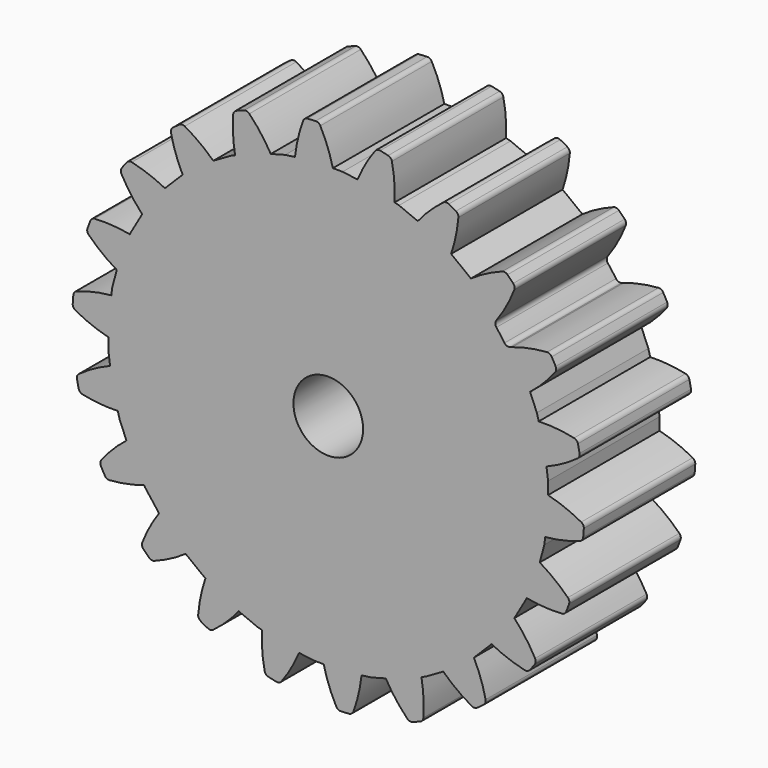
from build123d import *

# Parameters (mm, degrees)
F1_DEPTH = 4
F2_R     = 1
F3_DEPTH = 25


with BuildPart() as f1:
    # F0 (on Front) → F1 (new body)
    with BuildSketch(Plane.XZ):
        with BuildLine():
            Line((-0.9548687594, 6.2389925357), (-0.4135957983, 6.3102524729))
            Line((-0.4135957983, 6.3102524729), (0.1323477858, 6.3102524729))
            ThreePointArc((0.1323477858, 6.3102524729), (-0.0181659911, 6.7989274234), (-0.2290543438, 7.2647425231))
            ThreePointArc((-0.2290543438, 7.2647425231), (-0.2851098243, 7.3224034831), (-0.3633445131, 7.3410136061))
            ThreePointArc((-0.3633445131, 7.3410136061), (-0.4807129998, 7.3342630858), (-0.5979585026, 7.3256361928))
            ThreePointArc((-0.5979585026, 7.3256361928), (-0.6730947743, 7.296973606), (-0.7211444269, 7.232489235))
            ThreePointArc((-0.7211444269, 7.232489235), (-0.8694275292, 6.7431327945), (-0.9548687594, 6.2389925357))
        make_face()
        with BuildLine():
            Line((0.1323477858, 6.3102524729), (-0.4135957983, 6.3102524729))
            Line((-0.4135957983, 6.3102524729), (-0.9548687594, 6.2389925357))
            ThreePointArc((-0.9548687594, 6.2389925357), (-0.9576926172, 6.2112024314), (-0.9603247383, 6.1833935117))
            ThreePointArc((-0.9603247383, 6.1833935117), (-0.9976551374, 6.0990815291), (-1.0784777938, 6.054699468))
            ThreePointArc((-1.0784777938, 6.054699468), (-1.2714974384, 6.017125083), (-1.4632171479, 5.973398997))
            ThreePointArc((-1.4632171479, 5.973398997), (-2.1148816109, 5.7749264733), (-2.7405978274, 5.5055992906))
            ThreePointArc((-2.7405978274, 5.5055992906), (-2.9152128926, 5.4151670141), (-3.0868475448, 5.319198458))
            ThreePointArc((-3.0868475448, 5.319198458), (-3.6561988466, 4.9451703706), (-4.1806909239, 4.5104682017))
            ThreePointArc((-4.1806909239, 4.5104682017), (-4.3227551356, 4.3745043191), (-4.4603999118, 4.2340680943))
            ThreePointArc((-4.4603999118, 4.2340680943), (-4.9013125959, 3.7147859746), (-5.2820893054, 3.1499258039))
            ThreePointArc((-5.2820893054, 3.1499258039), (-5.380093466, 2.9794453002), (-5.4725972049, 2.8059187146))
            ThreePointArc((-5.4725972049, 2.8059187146), (-5.749351148, 2.1834517116), (-5.9555642251, 1.5341951507))
            ThreePointArc((-5.9555642251, 1.5341951507), (-6.0015686204, 1.3430093426), (-6.0414372193, 1.1504504881))
            ThreePointArc((-6.0414372193, 1.1504504881), (-6.1316114628, 0.4752271764), (-6.1465547504, -0.2058268693))
            ThreePointArc((-6.1465547504, -0.2058268693), (-6.1368323779, -0.4022292448), (-6.12083592, -0.598220395))
            ThreePointArc((-6.12083592, -0.598220395), (-6.017125083, -1.2714974384), (-5.8395879648, -1.9291740205))
            ThreePointArc((-5.8395879648, -1.9291740205), (-5.7749264733, -2.1148816109), (-5.7043608964, -2.2984270194))
            ThreePointArc((-5.7043608964, -2.2984270194), (-5.4151670141, -2.9152128926), (-5.0595324917, -3.4962309657))
            ThreePointArc((-5.0595324917, -3.4962309657), (-4.9451703706, -3.6561988466), (-4.8257524782, -3.812428756))
            ThreePointArc((-4.8257524782, -3.812428756), (-4.3745043191, -4.3227551356), (-3.8695837862, -4.7800440711))
            ThreePointArc((-3.8695837862, -4.7800440711), (-3.7147859746, -4.9013125959), (-3.556190294, -5.0175701881))
            ThreePointArc((-3.556190294, -5.0175701881), (-2.9794453002, -5.380093466), (-2.3661444158, -5.6766064338))
            ThreePointArc((-2.3661444158, -5.6766064338), (-2.1834517116, -5.749351148), (-1.9985267217, -5.8162179243))
            ThreePointArc((-1.9985267217, -5.8162179243), (-1.3430093426, -6.0015686204), (-0.6710140967, -6.1132839033))
            ThreePointArc((-0.6710140967, -6.1132839033), (-0.4752271764, -6.1316114628), (-0.2789544001, -6.1436702746))
            ThreePointArc((-0.2789544001, -6.1436702746), (0.4022292448, -6.1368323779), (1.0784777938, -6.054699468))
            ThreePointArc((1.0784777938, -6.054699468), (1.2714974384, -6.017125083), (1.4632171479, -5.973398997))
            ThreePointArc((1.4632171479, -5.973398997), (2.1148816109, -5.7749264733), (2.7405978274, -5.5055992906))
            ThreePointArc((2.7405978274, -5.5055992906), (2.9152128926, -5.4151670141), (3.0868475448, -5.319198458))
            ThreePointArc((3.0868475448, -5.319198458), (3.6561988466, -4.9451703706), (4.1806909239, -4.5104682017))
            ThreePointArc((4.1806909239, -4.5104682017), (4.3227551356, -4.3745043191), (4.4603999118, -4.2340680943))
            ThreePointArc((4.4603999118, -4.2340680943), (4.9013125959, -3.7147859746), (5.2820893054, -3.1499258039))
            ThreePointArc((5.2820893054, -3.1499258039), (5.380093466, -2.9794453002), (5.4725972049, -2.8059187146))
            ThreePointArc((5.4725972049, -2.8059187146), (5.749351148, -2.1834517116), (5.9555642251, -1.5341951507))
            ThreePointArc((5.9555642251, -1.5341951507), (6.0015686204, -1.3430093426), (6.0414372193, -1.1504504881))
            ThreePointArc((6.0414372193, -1.1504504881), (6.1316114628, -0.4752271764), (6.1465547504, 0.2058268693))
            ThreePointArc((6.1465547504, 0.2058268693), (6.1368323779, 0.4022292448), (6.12083592, 0.598220395))
            ThreePointArc((6.12083592, 0.598220395), (6.017125083, 1.2714974384), (5.8395879648, 1.9291740205))
            ThreePointArc((5.8395879648, 1.9291740205), (5.7749264733, 2.1148816109), (5.7043608964, 2.2984270194))
            ThreePointArc((5.7043608964, 2.2984270194), (5.4151670141, 2.9152128926), (5.0595324917, 3.4962309657))
            ThreePointArc((5.0595324917, 3.4962309657), (4.9451703706, 3.6561988466), (4.8257524782, 3.812428756))
            ThreePointArc((4.8257524782, 3.812428756), (4.3745043191, 4.3227551356), (3.8695837862, 4.7800440711))
            ThreePointArc((3.8695837862, 4.7800440711), (3.7147859746, 4.9013125959), (3.556190294, 5.0175701881))
            ThreePointArc((3.556190294, 5.0175701881), (2.9794453002, 5.380093466), (2.3661444158, 5.6766064338))
            ThreePointArc((2.3661444158, 5.6766064338), (2.1834517116, 5.749351148), (1.9985267217, 5.8162179243))
            ThreePointArc((1.9985267217, 5.8162179243), (1.3430093426, 6.0015686204), (0.6710140967, 6.1132839033))
            ThreePointArc((0.6710140967, 6.1132839033), (0.4752271764, 6.1316114628), (0.2789544001, 6.1436702746))
            ThreePointArc((0.2789544001, 6.1436702746), (0.1930301714, 6.1771231673), (0.1450142169, 6.2558412545))
            ThreePointArc((0.1450142169, 6.2558412545), (0.1387748217, 6.2830687042), (0.1323477858, 6.3102524729))
        make_face()
        with BuildLine():
            Line((0.4135957983, 6.3102524729), (0.1323477858, 6.3102524729))
            ThreePointArc((0.1323477858, 6.3102524729), (0.1387748217, 6.2830687042), (0.1450142169, 6.2558412545))
            ThreePointArc((0.1450142169, 6.2558412545), (0.1930301714, 6.1771231673), (0.2789544001, 6.1436702746))
            ThreePointArc((0.2789544001, 6.1436702746), (0.4752271764, 6.1316114628), (0.6710140967, 6.1132839033))
            ThreePointArc((0.6710140967, 6.1132839033), (0.7610667391, 6.1330978053), (0.8206384253, 6.2034773715))
            ThreePointArc((0.8206384253, 6.2034773715), (0.8307350065, 6.2287646425), (0.8410013665, 6.2539834623))
            Line((0.8410013665, 6.2539834623), (0.4135957983, 6.3102524729))
        make_face()
        with BuildLine():
            ThreePointArc((-0.9603247383, 6.1833935117), (-0.9576926172, 6.2112024314), (-0.9548687594, 6.2389925357))
            Line((-0.9548687594, 6.2389925357), (-1.2337106561, 6.2022823035))
            Line((-1.2337106561, 6.2022823035), (-1.6501151308, 6.0907070608))
            ThreePointArc((-1.6501151308, 6.0907070608), (-1.6366448843, 6.0670440204), (-1.6233340296, 6.0432909538))
            ThreePointArc((-1.6233340296, 6.0432909538), (-1.5550856107, 5.9812891599), (-1.4632171479, 5.973398997))
            ThreePointArc((-1.4632171479, 5.973398997), (-1.2714974384, 6.017125083), (-1.0784777938, 6.054699468))
            ThreePointArc((-1.0784777938, 6.054699468), (-0.9976551374, 6.0990815291), (-0.9603247383, 6.1833935117))
        make_face()
        with BuildLine():
            ThreePointArc((1.345694674, 7.142692466), (1.0652023455, 6.7143217492), (0.8410013665, 6.2539834623))
            Line((0.8410013665, 6.2539834623), (1.2337106561, 6.2022823035))
            Line((1.2337106561, 6.2022823035), (1.9050395177, 6.0224002772))
            ThreePointArc((1.9050395177, 6.0224002772), (1.8978556687, 6.5311587247), (1.8269384524, 7.0350014719))
            ThreePointArc((1.8269384524, 7.0350014719), (1.7893985824, 7.1061194118), (1.7195760257, 7.1460169529))
            ThreePointArc((1.7195760257, 7.1460169529), (1.605059946, 7.1726064), (1.4901332333, 7.1973608321))
            ThreePointArc((1.4901332333, 7.1973608321), (1.4099653247, 7.1910276153), (1.345694674, 7.142692466))
        make_face()
        with BuildLine():
            Line((1.2337106561, 6.2022823035), (0.8410013665, 6.2539834623))
            ThreePointArc((0.8410013665, 6.2539834623), (0.8307350065, 6.2287646425), (0.8206384253, 6.2034773715))
            ThreePointArc((0.8206384253, 6.2034773715), (0.7610667391, 6.1330978053), (0.6710140967, 6.1132839033))
            ThreePointArc((0.6710140967, 6.1132839033), (1.3430093426, 6.0015686204), (1.9985267217, 5.8162179243))
            ThreePointArc((1.9985267217, 5.8162179243), (1.925507797, 5.8725233925), (1.901614274, 5.9615805016))
            ThreePointArc((1.901614274, 5.9615805016), (1.9034412464, 5.9919839494), (1.9050395177, 6.0224002772))
            Line((1.9050395177, 6.0224002772), (1.2337106561, 6.2022823035))
        make_face()
        with BuildLine():
            ThreePointArc((-1.6233340296, 6.0432909538), (-1.6366448843, 6.0670440204), (-1.6501151308, 6.0907070608))
            Line((-1.6501151308, 6.0907070608), (-2.0327163826, 5.9881893644))
            Line((-2.0327163826, 5.9881893644), (-2.6748226167, 5.7222202537))
            ThreePointArc((-2.6748226167, 5.7222202537), (-2.6692678915, 5.6922727581), (-2.6634881028, 5.6623678837))
            ThreePointArc((-2.6634881028, 5.6623678837), (-2.675552928, 5.5709539399), (-2.7405978274, 5.5055992906))
            ThreePointArc((-2.7405978274, 5.5055992906), (-2.1148816109, 5.7749264733), (-1.4632171479, 5.973398997))
            ThreePointArc((-1.4632171479, 5.973398997), (-1.5550856107, 5.9812891599), (-1.6233340296, 6.0432909538))
        make_face()
        with BuildLine():
            Line((-2.0327163826, 5.9881893644), (-1.6501151308, 6.0907070608))
            ThreePointArc((-1.6501151308, 6.0907070608), (-1.9324842431, 6.5178429897), (-2.2664905193, 6.9059373401))
            ThreePointArc((-2.2664905193, 6.9059373401), (-2.3365203287, 6.9454699722), (-2.4168290404, 6.9412849956))
            ThreePointArc((-2.4168290404, 6.9412849956), (-2.5275414374, 6.9017413949), (-2.6376071968, 6.8604320764))
            ThreePointArc((-2.6376071968, 6.8604320764), (-2.7016247377, 6.8117621918), (-2.729560695, 6.7363527395))
            ThreePointArc((-2.729560695, 6.7363527395), (-2.7341065295, 6.2275638826), (-2.6748226167, 5.7222202537))
            Line((-2.6748226167, 5.7222202537), (-2.0327163826, 5.9881893644))
        make_face()
        with BuildLine():
            Line((2.0327163826, 5.9881893644), (1.9050395177, 6.0224002772))
            ThreePointArc((1.9050395177, 6.0224002772), (1.9034412464, 5.9919839494), (1.901614274, 5.9615805016))
            ThreePointArc((1.901614274, 5.9615805016), (1.925507797, 5.8725233925), (1.9985267217, 5.8162179243))
            ThreePointArc((1.9985267217, 5.8162179243), (2.1834517116, 5.749351148), (2.3661444158, 5.6766064338))
            ThreePointArc((2.3661444158, 5.6766064338), (2.4581315147, 5.6702469724), (2.5351183441, 5.7209923882))
            ThreePointArc((2.5351183441, 5.7209923882), (2.5526418225, 5.7433109259), (2.570321242, 5.7655061404))
            Line((2.570321242, 5.7655061404), (2.0327163826, 5.9881893644))
        make_face()
        with BuildLine():
            ThreePointArc((-2.6634881028, 5.6623678837), (-2.6692678915, 5.6922727581), (-2.6748226167, 5.7222202537))
            Line((-2.6748226167, 5.7222202537), (-2.7969417682, 5.6716368449))
            Line((-2.7969417682, 5.6716368449), (-3.3008813502, 5.3806871916))
            ThreePointArc((-3.3008813502, 5.3806871916), (-3.2804561237, 5.3609894876), (-3.2601694074, 5.3411491609))
            ThreePointArc((-3.2601694074, 5.3411491609), (-3.1772176051, 5.3008866769), (-3.0868475448, 5.319198458))
            ThreePointArc((-3.0868475448, 5.319198458), (-2.9152128926, 5.4151670141), (-2.7405978274, 5.5055992906))
            ThreePointArc((-2.7405978274, 5.5055992906), (-2.675552928, 5.5709539399), (-2.6634881028, 5.6623678837))
        make_face()
        with BuildLine():
            ThreePointArc((2.5351183441, 5.7209923882), (2.4581315147, 5.6702469724), (2.3661444158, 5.6766064338))
            ThreePointArc((2.3661444158, 5.6766064338), (2.9794453002, 5.380093466), (3.556190294, 5.0175701881))
            ThreePointArc((3.556190294, 5.0175701881), (3.5019922323, 5.0921666976), (3.504156852, 5.1843479514))
            ThreePointArc((3.504156852, 5.1843479514), (3.5155471657, 5.2160207593), (3.5266738625, 5.247787135))
            Line((3.5266738625, 5.247787135), (3.5133107047, 5.2580410466))
            Line((3.5133107047, 5.2580410466), (2.7969417682, 5.6716368449))
            Line((2.7969417682, 5.6716368449), (2.570321242, 5.7655061404))
            ThreePointArc((2.570321242, 5.7655061404), (2.5526418225, 5.7433109259), (2.5351183441, 5.7209923882))
        make_face()
        with BuildLine():
            ThreePointArc((-4.1806909239, 4.5104682017), (-3.6561988466, 4.9451703706), (-3.0868475448, 5.319198458))
            ThreePointArc((-3.0868475448, 5.319198458), (-3.1772176051, 5.3008866769), (-3.2601694074, 5.3411491609))
            ThreePointArc((-3.2601694074, 5.3411491609), (-3.2804561237, 5.3609894876), (-3.3008813502, 5.3806871916))
            Line((-3.3008813502, 5.3806871916), (-3.5133107047, 5.2580410466))
            Line((-3.5133107047, 5.2580410466), (-4.1695659209, 4.7544787082))
            Line((-4.1695659209, 4.7544787082), (-4.181476351, 4.7425682781))
            ThreePointArc((-4.181476351, 4.7425682781), (-4.1662985006, 4.7125259935), (-4.1508715016, 4.6826108851))
            ThreePointArc((-4.1508715016, 4.6826108851), (-4.1366933325, 4.5915007943), (-4.1806909239, 4.5104682017))
        make_face()
        with BuildLine():
            ThreePointArc((3.3035135955, 6.4742372325), (2.9145220975, 6.1430399635), (2.570321242, 5.7655061404))
            Line((2.570321242, 5.7655061404), (2.7969417682, 5.6716368449))
            Line((2.7969417682, 5.6716368449), (3.5133107047, 5.2580410466))
            Line((3.5133107047, 5.2580410466), (3.5266738625, 5.247787135))
            ThreePointArc((3.5266738625, 5.247787135), (3.6616808323, 5.735044447), (3.7349235603, 6.2353264403))
            ThreePointArc((3.7349235603, 6.2353264403), (3.7189405579, 6.3141398075), (3.6631867416, 6.3720925053))
            ThreePointArc((3.6631867416, 6.3720925053), (3.5608004807, 6.4298678008), (3.4575032369, 6.4859981011))
            ThreePointArc((3.4575032369, 6.4859981011), (3.3787984185, 6.502507334), (3.3035135955, 6.4742372325))
        make_face()
        with BuildLine():
            ThreePointArc((3.504156852, 5.1843479514), (3.5019922323, 5.0921666976), (3.556190294, 5.0175701881))
            ThreePointArc((3.556190294, 5.0175701881), (3.7147859746, 4.9013125959), (3.8695837862, 4.7800440711))
            ThreePointArc((3.8695837862, 4.7800440711), (3.956053094, 4.748026452), (4.0442180516, 4.7750266256))
            ThreePointArc((4.0442180516, 4.7750266256), (4.0698006561, 4.7932593736), (4.0955239175, 4.8112931357))
            Line((4.0955239175, 4.8112931357), (3.5266738625, 5.247787135))
            ThreePointArc((3.5266738625, 5.247787135), (3.5155471657, 5.2160207593), (3.504156852, 5.1843479514))
        make_face()
        with BuildLine():
            Line((-3.5133107047, 5.2580410466), (-3.3008813502, 5.3806871916))
            ThreePointArc((-3.3008813502, 5.3806871916), (-3.691415572, 5.7100639335), (-4.1203091122, 5.987654185))
            ThreePointArc((-4.1203091122, 5.987654185), (-4.1986398518, 6.0058557905), (-4.2745164523, 5.9792147561))
            ThreePointArc((-4.2745164523, 5.9792147561), (-4.3696034995, 5.9100816624), (-4.4635726424, 5.8394365538))
            ThreePointArc((-4.4635726424, 5.8394365538), (-4.5112851321, 5.774702316), (-4.516844189, 5.6944770077))
            ThreePointArc((-4.516844189, 5.6944770077), (-4.378928159, 5.2080350906), (-4.181476351, 4.7425682781))
            Line((-4.181476351, 4.7425682781), (-4.1695659209, 4.7544787082))
            Line((-4.1695659209, 4.7544787082), (-3.5133107047, 5.2580410466))
        make_face()
        with BuildLine():
            ThreePointArc((-4.4603999118, 4.2340680943), (-4.3227551356, 4.3745043191), (-4.1806909239, 4.5104682017))
            ThreePointArc((-4.1806909239, 4.5104682017), (-4.1366933325, 4.5915007943), (-4.1508715016, 4.6826108851))
            ThreePointArc((-4.1508715016, 4.6826108851), (-4.1662985006, 4.7125259935), (-4.181476351, 4.7425682781))
            Line((-4.181476351, 4.7425682781), (-4.6884859153, 4.2355587138))
            ThreePointArc((-4.6884859153, 4.2355587138), (-4.6606288417, 4.2210367925), (-4.6328852488, 4.2062992281))
            ThreePointArc((-4.6328852488, 4.2062992281), (-4.5419503247, 4.1910378809), (-4.4603999118, 4.2340680943))
        make_face()
        with BuildLine():
            ThreePointArc((4.0442180516, 4.7750266256), (3.956053094, 4.748026452), (3.8695837862, 4.7800440711))
            ThreePointArc((3.8695837862, 4.7800440711), (4.3745043191, 4.3227551356), (4.8257524782, 3.812428756))
            ThreePointArc((4.8257524782, 3.812428756), (4.7947660841, 3.8992729412), (4.8228134818, 3.9871103626))
            ThreePointArc((4.8228134818, 3.9871103626), (5.1130402601, 4.4415430354), (5.3403273739, 4.9305023434))
            ThreePointArc((5.3403273739, 4.9305023434), (5.3471960868, 5.0106261476), (5.3100278536, 5.0819390191))
            ThreePointArc((5.3100278536, 5.0819390191), (5.2280661374, 5.1662195523), (5.1447668907, 5.2491783776))
            ThreePointArc((5.1447668907, 5.2491783776), (5.0739013589, 5.2871925803), (4.9937014922, 5.2812778023))
            ThreePointArc((4.9937014922, 5.2812778023), (4.5298500955, 5.0744979739), (4.0955239175, 4.8112931357))
            ThreePointArc((4.0955239175, 4.8112931357), (4.0698006561, 4.7932593736), (4.0442180516, 4.7750266256))
        make_face()
        with BuildLine():
            ThreePointArc((-5.2820893054, 3.1499258039), (-4.9013125959, 3.7147859746), (-4.4603999118, 4.2340680943))
            ThreePointArc((-4.4603999118, 4.2340680943), (-4.5419503247, 4.1910378809), (-4.6328852488, 4.2062992281))
            ThreePointArc((-4.6328852488, 4.2062992281), (-4.6606288417, 4.2210367925), (-4.6884859153, 4.2355587138))
            Line((-4.6884859153, 4.2355587138), (-4.7544787082, 4.1695659209))
            Line((-4.7544787082, 4.1695659209), (-5.2580410466, 3.5133107047))
            Line((-5.2580410466, 3.5133107047), (-5.3427750854, 3.3665470445))
            ThreePointArc((-5.3427750854, 3.3665470445), (-5.3224543413, 3.3449471343), (-5.3019759775, 3.3234966012))
            ThreePointArc((-5.3019759775, 3.3234966012), (-5.262703445, 3.2400715611), (-5.2820893054, 3.1499258039))
        make_face()
        with BuildLine():
            ThreePointArc((-5.4725972049, 2.8059187146), (-5.380093466, 2.9794453002), (-5.2820893054, 3.1499258039))
            ThreePointArc((-5.2820893054, 3.1499258039), (-5.262703445, 3.2400715611), (-5.3019759775, 3.3234966012))
            ThreePointArc((-5.3019759775, 3.3234966012), (-5.3224543413, 3.3449471343), (-5.3427750854, 3.3665470445))
            Line((-5.3427750854, 3.3665470445), (-5.6716368449, 2.7969417682))
            Line((-5.6716368449, 2.7969417682), (-5.6937890731, 2.7434615585))
            ThreePointArc((-5.6937890731, 2.7434615585), (-5.6620051169, 2.7371977692), (-5.6302722801, 2.7306799476))
            ThreePointArc((-5.6302722801, 2.7306799476), (-5.5387212411, 2.7416561208), (-5.4725972049, 2.8059187146))
        make_face()
        with BuildLine():
            ThreePointArc((5.2256792645, 3.4422166039), (5.1334787792, 3.441149066), (5.0595324917, 3.4962309657))
            ThreePointArc((5.0595324917, 3.4962309657), (5.4151670141, 2.9152128926), (5.7043608964, 2.2984270194))
            ThreePointArc((5.7043608964, 2.2984270194), (5.6990965034, 2.3904832809), (5.7507544457, 2.4668608046))
            ThreePointArc((5.7507544457, 2.4668608046), (5.7726405654, 2.4836241845), (5.7944120704, 2.5005361539))
            Line((5.7944120704, 2.5005361539), (5.6716368449, 2.7969417682))
            Line((5.6716368449, 2.7969417682), (5.2869843275, 3.4631794716))
            ThreePointArc((5.2869843275, 3.4631794716), (5.2562898761, 3.4528206311), (5.2256792645, 3.4422166039))
        make_face()
        with BuildLine():
            ThreePointArc((-5.9555642251, 1.5341951507), (-5.749351148, 2.1834517116), (-5.4725972049, 2.8059187146))
            ThreePointArc((-5.4725972049, 2.8059187146), (-5.5387212411, 2.7416561208), (-5.6302722801, 2.7306799476))
            ThreePointArc((-5.6302722801, 2.7306799476), (-5.6620051169, 2.7371977692), (-5.6937890731, 2.7434615585))
            Line((-5.6937890731, 2.7434615585), (-5.9881893644, 2.0327163826))
            Line((-5.9881893644, 2.0327163826), (-6.0712255345, 1.7228211767))
            ThreePointArc((-6.0712255345, 1.7228211767), (-6.0474328328, 1.7088956432), (-6.0235458918, 1.6951323882))
            ThreePointArc((-6.0235458918, 1.6951323882), (-5.962360623, 1.6261509994), (-5.9555642251, 1.5341951507))
        make_face()
        with BuildLine():
            Line((-4.7544787082, 4.1695659209), (-4.6884859153, 4.2355587138))
            ThreePointArc((-4.6884859153, 4.2355587138), (-5.1534514979, 4.4398208559), (-5.6403247653, 4.5842868977))
            ThreePointArc((-5.6403247653, 4.5842868977), (-5.7206105444, 4.5796828908), (-5.7859079627, 4.5327440968))
            ThreePointArc((-5.7859079627, 4.5327440968), (-5.8576662732, 4.4396222623), (-5.9279259784, 4.34536461))
            ThreePointArc((-5.9279259784, 4.34536461), (-5.9554680347, 4.269810402), (-5.9381998295, 4.191268615))
            ThreePointArc((-5.9381998295, 4.191268615), (-5.6664825433, 3.7601401415), (-5.3427750854, 3.3665470445))
            Line((-5.3427750854, 3.3665470445), (-5.2580410466, 3.5133107047))
            Line((-5.2580410466, 3.5133107047), (-4.7544787082, 4.1695659209))
        make_face()
        with BuildLine():
            ThreePointArc((5.7507544457, 2.4668608046), (5.6990965034, 2.3904832809), (5.7043608964, 2.2984270194))
            ThreePointArc((5.7043608964, 2.2984270194), (5.7749264733, 2.1148816109), (5.8395879648, 1.9291740205))
            ThreePointArc((5.8395879648, 1.9291740205), (5.8950205437, 1.855490248), (5.9837870217, 1.8305386647))
            ThreePointArc((5.9837870217, 1.8305386647), (6.012723172, 1.8319374431), (6.0416685875, 1.8331292046))
            Line((6.0416685875, 1.8331292046), (5.9881893644, 2.0327163826))
            Line((5.9881893644, 2.0327163826), (5.7944120704, 2.5005361539))
            ThreePointArc((5.7944120704, 2.5005361539), (5.7726405654, 2.4836241845), (5.7507544457, 2.4668608046))
        make_face()
        with BuildLine():
            ThreePointArc((-6.0414372193, 1.1504504881), (-6.0015686204, 1.3430093426), (-5.9555642251, 1.5341951507))
            ThreePointArc((-5.9555642251, 1.5341951507), (-5.962360623, 1.6261509994), (-6.0235458918, 1.6951323882))
            ThreePointArc((-6.0235458918, 1.6951323882), (-6.0474328328, 1.7088956432), (-6.0712255345, 1.7228211767))
            Line((-6.0712255345, 1.7228211767), (-6.2022823035, 1.2337106561))
            Line((-6.2022823035, 1.2337106561), (-6.2292526502, 1.0288505347))
            ThreePointArc((-6.2292526502, 1.0288505347), (-6.2003993106, 1.0314471038), (-6.1715281358, 1.0338372177))
            ThreePointArc((-6.1715281358, 1.0338372177), (-6.0867779025, 1.0701616871), (-6.0414372193, 1.1504504881))
        make_face()
        with BuildLine():
            ThreePointArc((5.9837870217, 1.8305386647), (5.8950205437, 1.855490248), (5.8395879648, 1.9291740205))
            ThreePointArc((5.8395879648, 1.9291740205), (6.017125083, 1.2714974384), (6.12083592, 0.598220395))
            ThreePointArc((6.12083592, 0.598220395), (6.1417200178, 0.688030882), (6.2128034855, 0.7467608551))
            ThreePointArc((6.2128034855, 0.7467608551), (6.2383237515, 0.7566004543), (6.2637769848, 0.7666121778))
            Line((6.2637769848, 0.7666121778), (6.2022823035, 1.2337106561))
            Line((6.2022823035, 1.2337106561), (6.0416685875, 1.8331292046))
            ThreePointArc((6.0416685875, 1.8331292046), (6.012723172, 1.8319374431), (5.9837870217, 1.8305386647))
        make_face()
        with BuildLine():
            ThreePointArc((6.2793293928, 3.6604606535), (5.776972079, 3.5929301615), (5.2869843275, 3.4631794716))
            Line((5.2869843275, 3.4631794716), (5.6716368449, 2.7969417682))
            Line((5.6716368449, 2.7969417682), (5.7944120704, 2.5005361539))
            ThreePointArc((5.7944120704, 2.5005361539), (6.1767187578, 2.8406416229), (6.5130896238, 3.2262382695))
            ThreePointArc((6.5130896238, 3.2262382695), (6.5422535897, 3.3011813565), (6.5266820888, 3.3800770571))
            ThreePointArc((6.5266820888, 3.3800770571), (6.4717849681, 3.4840349204), (6.4152321282, 3.5871014401))
            ThreePointArc((6.4152321282, 3.5871014401), (6.3579469868, 3.643540928), (6.2793293928, 3.6604606535))
        make_face()
        with BuildLine():
            ThreePointArc((-6.1465547504, -0.2058268693), (-6.1316114628, 0.4752271764), (-6.0414372193, 1.1504504881))
            ThreePointArc((-6.0414372193, 1.1504504881), (-6.0867779025, 1.0701616871), (-6.1715281358, 1.0338372177))
            ThreePointArc((-6.1715281358, 1.0338372177), (-6.2003993106, 1.0314471038), (-6.2292526502, 1.0288505347))
            Line((-6.2292526502, 1.0288505347), (-6.3102524729, 0.4135957983))
            Line((-6.3102524729, 0.4135957983), (-6.3102524729, -0.0575332544))
            ThreePointArc((-6.3102524729, -0.0575332544), (-6.2837102034, -0.0641370126), (-6.2571239413, -0.0705613695))
            ThreePointArc((-6.2571239413, -0.0705613695), (-6.1789828028, -0.1195106452), (-6.1465547504, -0.2058268693))
        make_face()
        with BuildLine():
            Line((-5.9881893644, 2.0327163826), (-5.6937890731, 2.7434615585))
            ThreePointArc((-5.6937890731, 2.7434615585), (-6.1965207749, 2.8081459779), (-6.7033948502, 2.8095279499))
            ThreePointArc((-6.7033948502, 2.8095279499), (-6.7791313925, 2.7824913197), (-6.8285596201, 2.7190574681))
            ThreePointArc((-6.8285596201, 2.7190574681), (-6.8711757623, 2.6094910699), (-6.9120340064, 2.4992570684))
            ThreePointArc((-6.9120340064, 2.4992570684), (-6.9171743356, 2.4190038428), (-6.8784778357, 2.3485085657))
            ThreePointArc((-6.8784778357, 2.3485085657), (-6.4946542071, 2.0101159601), (-6.0712255345, 1.7228211767))
            Line((-6.0712255345, 1.7228211767), (-5.9881893644, 2.0327163826))
        make_face()
        with BuildLine():
            ThreePointArc((6.2128034855, 0.7467608551), (6.1417200178, 0.688030882), (6.12083592, 0.598220395))
            ThreePointArc((6.12083592, 0.598220395), (6.1368323779, 0.4022292448), (6.1465547504, 0.2058268693))
            ThreePointArc((6.1465547504, 0.2058268693), (6.1789828028, 0.1195106452), (6.2571239413, 0.0705613695))
            ThreePointArc((6.2571239413, 0.0705613695), (6.2837102034, 0.0641370126), (6.3102524729, 0.0575332544))
            Line((6.3102524729, 0.0575332544), (6.3102524729, 0.4135957983))
            Line((6.3102524729, 0.4135957983), (6.2637769848, 0.7666121778))
            ThreePointArc((6.2637769848, 0.7666121778), (6.2383237515, 0.7566004543), (6.2128034855, 0.7467608551))
        make_face()
        with BuildLine():
            ThreePointArc((-6.12083592, -0.598220395), (-6.1368323779, -0.4022292448), (-6.1465547504, -0.2058268693))
            ThreePointArc((-6.1465547504, -0.2058268693), (-6.1789828028, -0.1195106452), (-6.2571239413, -0.0705613695))
            ThreePointArc((-6.2571239413, -0.0705613695), (-6.2837102034, -0.0641370126), (-6.3102524729, -0.0575332544))
            Line((-6.3102524729, -0.0575332544), (-6.3102524729, -0.4135957983))
            Line((-6.3102524729, -0.4135957983), (-6.2637769848, -0.7666121778))
            ThreePointArc((-6.2637769848, -0.7666121778), (-6.2383237515, -0.7566004543), (-6.2128034855, -0.7467608551))
            ThreePointArc((-6.2128034855, -0.7467608551), (-6.1417200178, -0.688030882), (-6.12083592, -0.598220395))
        make_face()
        with BuildLine():
            ThreePointArc((6.2571239413, 0.0705613695), (6.1789828028, 0.1195106452), (6.1465547504, 0.2058268693))
            ThreePointArc((6.1465547504, 0.2058268693), (6.1316114628, -0.4752271764), (6.0414372193, -1.1504504881))
            ThreePointArc((6.0414372193, -1.1504504881), (6.0867779025, -1.0701616871), (6.1715281358, -1.0338372177))
            ThreePointArc((6.1715281358, -1.0338372177), (6.2003993106, -1.0314471038), (6.2292526502, -1.0288505347))
            Line((6.2292526502, -1.0288505347), (6.3102524729, -0.4135957983))
            Line((6.3102524729, -0.4135957983), (6.3102524729, 0.0575332544))
            ThreePointArc((6.3102524729, 0.0575332544), (6.2837102034, 0.0641370126), (6.2571239413, 0.0705613695))
        make_face()
        with BuildLine():
            ThreePointArc((7.0562433705, 1.7430947522), (6.551797679, 1.8201343547), (6.0416685875, 1.8331292046))
            Line((6.0416685875, 1.8331292046), (6.2022823035, 1.2337106561))
            Line((6.2022823035, 1.2337106561), (6.2637769848, 0.7666121778))
            ThreePointArc((6.2637769848, 0.7666121778), (6.7266296214, 0.9852880457), (7.1582000872, 1.2606035581))
            ThreePointArc((7.1582000872, 1.2606035581), (7.2072966151, 1.3242944849), (7.2145833568, 1.404381354))
            ThreePointArc((7.2145833568, 1.404381354), (7.1911982699, 1.5195944995), (7.1659734115, 1.6344188772))
            ThreePointArc((7.1659734115, 1.6344188772), (7.1269095621, 1.7047112586), (7.0562433705, 1.7430947522))
        make_face()
        with BuildLine():
            ThreePointArc((-5.8395879648, -1.9291740205), (-6.017125083, -1.2714974384), (-6.12083592, -0.598220395))
            ThreePointArc((-6.12083592, -0.598220395), (-6.1417200178, -0.688030882), (-6.2128034855, -0.7467608551))
            ThreePointArc((-6.2128034855, -0.7467608551), (-6.2383237515, -0.7566004543), (-6.2637769848, -0.7666121778))
            Line((-6.2637769848, -0.7666121778), (-6.2022823035, -1.2337106561))
            Line((-6.2022823035, -1.2337106561), (-6.0416685875, -1.8331292046))
            ThreePointArc((-6.0416685875, -1.8331292046), (-6.012723172, -1.8319374431), (-5.9837870217, -1.8305386647))
            ThreePointArc((-5.9837870217, -1.8305386647), (-5.8950205437, -1.855490248), (-5.8395879648, -1.9291740205))
        make_face()
        with BuildLine():
            Line((-6.3102524729, 0.4135957983), (-6.2292526502, 1.0288505347))
            ThreePointArc((-6.2292526502, 1.0288505347), (-6.7333213482, 0.9493816497), (-7.223395751, 0.8071577564))
            ThreePointArc((-7.223395751, 0.8071577564), (-7.2884473322, 0.75987885), (-7.3180019881, 0.6850889742))
            ThreePointArc((-7.3180019881, 0.6850889742), (-7.3280234556, 0.5679544303), (-7.3361701466, 0.4506745828))
            ThreePointArc((-7.3361701466, 0.4506745828), (-7.31849231, 0.3722239786), (-7.2615024755, 0.3154863194))
            ThreePointArc((-7.2615024755, 0.3154863194), (-6.7976882693, 0.0988574189), (-6.3102524729, -0.0575332544))
            Line((-6.3102524729, -0.0575332544), (-6.3102524729, 0.4135957983))
        make_face()
        with BuildLine():
            ThreePointArc((6.1715281358, -1.0338372177), (6.0867779025, -1.0701616871), (6.0414372193, -1.1504504881))
            ThreePointArc((6.0414372193, -1.1504504881), (6.0015686204, -1.3430093426), (5.9555642251, -1.5341951507))
            ThreePointArc((5.9555642251, -1.5341951507), (5.962360623, -1.6261509994), (6.0235458918, -1.6951323882))
            ThreePointArc((6.0235458918, -1.6951323882), (6.0474328328, -1.7088956432), (6.0712255345, -1.7228211767))
            Line((6.0712255345, -1.7228211767), (6.2022823035, -1.2337106561))
            Line((6.2022823035, -1.2337106561), (6.2292526502, -1.0288505347))
            ThreePointArc((6.2292526502, -1.0288505347), (6.2003993106, -1.0314471038), (6.1715281358, -1.0338372177))
        make_face()
        with BuildLine():
            ThreePointArc((-5.7043608964, -2.2984270194), (-5.7749264733, -2.1148816109), (-5.8395879648, -1.9291740205))
            ThreePointArc((-5.8395879648, -1.9291740205), (-5.8950205437, -1.855490248), (-5.9837870217, -1.8305386647))
            ThreePointArc((-5.9837870217, -1.8305386647), (-6.012723172, -1.8319374431), (-6.0416685875, -1.8331292046))
            Line((-6.0416685875, -1.8331292046), (-5.9881893644, -2.0327163826))
            Line((-5.9881893644, -2.0327163826), (-5.7944120704, -2.5005361539))
            ThreePointArc((-5.7944120704, -2.5005361539), (-5.7726405654, -2.4836241845), (-5.7507544457, -2.4668608046))
            ThreePointArc((-5.7507544457, -2.4668608046), (-5.6990965034, -2.3904832809), (-5.7043608964, -2.2984270194))
        make_face()
        with BuildLine():
            ThreePointArc((6.0235458918, -1.6951323882), (5.962360623, -1.6261509994), (5.9555642251, -1.5341951507))
            ThreePointArc((5.9555642251, -1.5341951507), (5.749351148, -2.1834517116), (5.4725972049, -2.8059187146))
            ThreePointArc((5.4725972049, -2.8059187146), (5.5387212411, -2.7416561208), (5.6302722801, -2.7306799476))
            ThreePointArc((5.6302722801, -2.7306799476), (5.6620051169, -2.7371977692), (5.6937890731, -2.7434615585))
            Line((5.6937890731, -2.7434615585), (5.9881893644, -2.0327163826))
            Line((5.9881893644, -2.0327163826), (6.0712255345, -1.7228211767))
            ThreePointArc((6.0712255345, -1.7228211767), (6.0474328328, -1.7088956432), (6.0235458918, -1.6951323882))
        make_face()
        with BuildLine():
            ThreePointArc((7.2615024755, -0.3154863194), (6.7976882693, -0.0988574189), (6.3102524729, 0.0575332544))
            Line((6.3102524729, 0.0575332544), (6.3102524729, -0.4135957983))
            Line((6.3102524729, -0.4135957983), (6.2292526502, -1.0288505347))
            ThreePointArc((6.2292526502, -1.0288505347), (6.7333213482, -0.9493816497), (7.223395751, -0.8071577564))
            ThreePointArc((7.223395751, -0.8071577564), (7.2884473322, -0.75987885), (7.3180019881, -0.6850889742))
            ThreePointArc((7.3180019881, -0.6850889742), (7.3280234556, -0.5679544303), (7.3361701466, -0.4506745828))
            ThreePointArc((7.3361701466, -0.4506745828), (7.31849231, -0.3722239786), (7.2615024755, -0.3154863194))
        make_face()
        with BuildLine():
            ThreePointArc((-5.0595324917, -3.4962309657), (-5.4151670141, -2.9152128926), (-5.7043608964, -2.2984270194))
            ThreePointArc((-5.7043608964, -2.2984270194), (-5.6990965034, -2.3904832809), (-5.7507544457, -2.4668608046))
            ThreePointArc((-5.7507544457, -2.4668608046), (-5.7726405654, -2.4836241845), (-5.7944120704, -2.5005361539))
            Line((-5.7944120704, -2.5005361539), (-5.6716368449, -2.7969417682))
            Line((-5.6716368449, -2.7969417682), (-5.2869843275, -3.4631794716))
            ThreePointArc((-5.2869843275, -3.4631794716), (-5.2562898761, -3.4528206311), (-5.2256792645, -3.4422166039))
            ThreePointArc((-5.2256792645, -3.4422166039), (-5.1334787792, -3.441149066), (-5.0595324917, -3.4962309657))
        make_face()
        with BuildLine():
            Line((-6.2022823035, -1.2337106561), (-6.2637769848, -0.7666121778))
            ThreePointArc((-6.2637769848, -0.7666121778), (-6.7266296214, -0.9852880457), (-7.1582000872, -1.2606035581))
            ThreePointArc((-7.1582000872, -1.2606035581), (-7.2072966151, -1.3242944849), (-7.2145833568, -1.404381354))
            ThreePointArc((-7.2145833568, -1.404381354), (-7.1911982699, -1.5195944995), (-7.1659734115, -1.6344188772))
            ThreePointArc((-7.1659734115, -1.6344188772), (-7.1269095621, -1.7047112586), (-7.0562433705, -1.7430947522))
            ThreePointArc((-7.0562433705, -1.7430947522), (-6.551797679, -1.8201343547), (-6.0416685875, -1.8331292046))
            Line((-6.0416685875, -1.8331292046), (-6.2022823035, -1.2337106561))
        make_face()
        with BuildLine():
            ThreePointArc((5.6302722801, -2.7306799476), (5.5387212411, -2.7416561208), (5.4725972049, -2.8059187146))
            ThreePointArc((5.4725972049, -2.8059187146), (5.380093466, -2.9794453002), (5.2820893054, -3.1499258039))
            ThreePointArc((5.2820893054, -3.1499258039), (5.262703445, -3.2400715611), (5.3019759775, -3.3234966012))
            ThreePointArc((5.3019759775, -3.3234966012), (5.3224543413, -3.3449471343), (5.3427750854, -3.3665470445))
            Line((5.3427750854, -3.3665470445), (5.6716368449, -2.7969417682))
            Line((5.6716368449, -2.7969417682), (5.6937890731, -2.7434615585))
            ThreePointArc((5.6937890731, -2.7434615585), (5.6620051169, -2.7371977692), (5.6302722801, -2.7306799476))
        make_face()
        with BuildLine():
            ThreePointArc((-4.8257524782, -3.812428756), (-4.9451703706, -3.6561988466), (-5.0595324917, -3.4962309657))
            ThreePointArc((-5.0595324917, -3.4962309657), (-5.1334787792, -3.441149066), (-5.2256792645, -3.4422166039))
            ThreePointArc((-5.2256792645, -3.4422166039), (-5.2562898761, -3.4528206311), (-5.2869843275, -3.4631794716))
            Line((-5.2869843275, -3.4631794716), (-5.2580410466, -3.5133107047))
            Line((-5.2580410466, -3.5133107047), (-4.8576443372, -4.0351178556))
            ThreePointArc((-4.8576443372, -4.0351178556), (-4.840316794, -4.0110503463), (-4.8228134818, -3.9871103626))
            ThreePointArc((-4.8228134818, -3.9871103626), (-4.7947660841, -3.8992729412), (-4.8257524782, -3.812428756))
        make_face()
        with BuildLine():
            ThreePointArc((5.3019759775, -3.3234966012), (5.262703445, -3.2400715611), (5.2820893054, -3.1499258039))
            ThreePointArc((5.2820893054, -3.1499258039), (4.9013125959, -3.7147859746), (4.4603999118, -4.2340680943))
            ThreePointArc((4.4603999118, -4.2340680943), (4.5419503247, -4.1910378809), (4.6328852488, -4.2062992281))
            ThreePointArc((4.6328852488, -4.2062992281), (4.6606288417, -4.2210367925), (4.6884859153, -4.2355587138))
            Line((4.6884859153, -4.2355587138), (4.7544787082, -4.1695659209))
            Line((4.7544787082, -4.1695659209), (5.2580410466, -3.5133107047))
            Line((5.2580410466, -3.5133107047), (5.3427750854, -3.3665470445))
            ThreePointArc((5.3427750854, -3.3665470445), (5.3224543413, -3.3449471343), (5.3019759775, -3.3234966012))
        make_face()
        with BuildLine():
            ThreePointArc((6.8784778357, -2.3485085657), (6.4946542071, -2.0101159601), (6.0712255345, -1.7228211767))
            Line((6.0712255345, -1.7228211767), (5.9881893644, -2.0327163826))
            Line((5.9881893644, -2.0327163826), (5.6937890731, -2.7434615585))
            ThreePointArc((5.6937890731, -2.7434615585), (6.1965207749, -2.8081459779), (6.7033948502, -2.8095279499))
            ThreePointArc((6.7033948502, -2.8095279499), (6.7791313925, -2.7824913197), (6.8285596201, -2.7190574681))
            ThreePointArc((6.8285596201, -2.7190574681), (6.8711757623, -2.6094910699), (6.9120340064, -2.4992570684))
            ThreePointArc((6.9120340064, -2.4992570684), (6.9171743356, -2.4190038428), (6.8784778357, -2.3485085657))
        make_face()
        with BuildLine():
            ThreePointArc((-3.8695837862, -4.7800440711), (-4.3745043191, -4.3227551356), (-4.8257524782, -3.812428756))
            ThreePointArc((-4.8257524782, -3.812428756), (-4.7947660841, -3.8992729412), (-4.8228134818, -3.9871103626))
            ThreePointArc((-4.8228134818, -3.9871103626), (-4.840316794, -4.0110503463), (-4.8576443372, -4.0351178556))
            Line((-4.8576443372, -4.0351178556), (-4.7544787082, -4.1695659209))
            Line((-4.7544787082, -4.1695659209), (-4.1695659209, -4.7544787082))
            Line((-4.1695659209, -4.7544787082), (-4.0955239175, -4.8112931357))
            ThreePointArc((-4.0955239175, -4.8112931357), (-4.0698006561, -4.7932593736), (-4.0442180516, -4.7750266256))
            ThreePointArc((-4.0442180516, -4.7750266256), (-3.956053094, -4.748026452), (-3.8695837862, -4.7800440711))
        make_face()
        with BuildLine():
            Line((-5.6716368449, -2.7969417682), (-5.7944120704, -2.5005361539))
            ThreePointArc((-5.7944120704, -2.5005361539), (-6.1767187578, -2.8406416229), (-6.5130896238, -3.2262382695))
            ThreePointArc((-6.5130896238, -3.2262382695), (-6.5422535897, -3.3011813565), (-6.5266820888, -3.3800770571))
            ThreePointArc((-6.5266820888, -3.3800770571), (-6.4717849681, -3.4840349204), (-6.4152321282, -3.5871014401))
            ThreePointArc((-6.4152321282, -3.5871014401), (-6.3579469868, -3.643540928), (-6.2793293928, -3.6604606535))
            ThreePointArc((-6.2793293928, -3.6604606535), (-5.776972079, -3.5929301615), (-5.2869843275, -3.4631794716))
            Line((-5.2869843275, -3.4631794716), (-5.6716368449, -2.7969417682))
        make_face()
        with BuildLine():
            ThreePointArc((4.6328852488, -4.2062992281), (4.5419503247, -4.1910378809), (4.4603999118, -4.2340680943))
            ThreePointArc((4.4603999118, -4.2340680943), (4.3227551356, -4.3745043191), (4.1806909239, -4.5104682017))
            ThreePointArc((4.1806909239, -4.5104682017), (4.1366933325, -4.5915007943), (4.1508715016, -4.6826108851))
            ThreePointArc((4.1508715016, -4.6826108851), (4.1662985006, -4.7125259935), (4.181476351, -4.7425682781))
            Line((4.181476351, -4.7425682781), (4.6884859153, -4.2355587138))
            ThreePointArc((4.6884859153, -4.2355587138), (4.6606288417, -4.2210367925), (4.6328852488, -4.2062992281))
        make_face()
        with BuildLine():
            ThreePointArc((-3.556190294, -5.0175701881), (-3.7147859746, -4.9013125959), (-3.8695837862, -4.7800440711))
            ThreePointArc((-3.8695837862, -4.7800440711), (-3.956053094, -4.748026452), (-4.0442180516, -4.7750266256))
            ThreePointArc((-4.0442180516, -4.7750266256), (-4.0698006561, -4.7932593736), (-4.0955239175, -4.8112931357))
            Line((-4.0955239175, -4.8112931357), (-3.5266738625, -5.247787135))
            ThreePointArc((-3.5266738625, -5.247787135), (-3.5155471657, -5.2160207593), (-3.504156852, -5.1843479514))
            ThreePointArc((-3.504156852, -5.1843479514), (-3.5019922323, -5.0921666976), (-3.556190294, -5.0175701881))
        make_face()
        with BuildLine():
            ThreePointArc((4.1508715016, -4.6826108851), (4.1366933325, -4.5915007943), (4.1806909239, -4.5104682017))
            ThreePointArc((4.1806909239, -4.5104682017), (3.6561988466, -4.9451703706), (3.0868475448, -5.319198458))
            ThreePointArc((3.0868475448, -5.319198458), (3.1772176051, -5.3008866769), (3.2601694074, -5.3411491609))
            ThreePointArc((3.2601694074, -5.3411491609), (3.2804561237, -5.3609894876), (3.3008813502, -5.3806871916))
            Line((3.3008813502, -5.3806871916), (3.5133107047, -5.2580410466))
            Line((3.5133107047, -5.2580410466), (4.1695659209, -4.7544787082))
            Line((4.1695659209, -4.7544787082), (4.181476351, -4.7425682781))
            ThreePointArc((4.181476351, -4.7425682781), (4.1662985006, -4.7125259935), (4.1508715016, -4.6826108851))
        make_face()
        with BuildLine():
            ThreePointArc((5.9381998295, -4.191268615), (5.6664825433, -3.7601401415), (5.3427750854, -3.3665470445))
            Line((5.3427750854, -3.3665470445), (5.2580410466, -3.5133107047))
            Line((5.2580410466, -3.5133107047), (4.7544787082, -4.1695659209))
            Line((4.7544787082, -4.1695659209), (4.6884859153, -4.2355587138))
            ThreePointArc((4.6884859153, -4.2355587138), (5.1534514979, -4.4398208559), (5.6403247653, -4.5842868977))
            ThreePointArc((5.6403247653, -4.5842868977), (5.7206105444, -4.5796828908), (5.7859079627, -4.5327440968))
            ThreePointArc((5.7859079627, -4.5327440968), (5.8576662732, -4.4396222623), (5.9279259784, -4.34536461))
            ThreePointArc((5.9279259784, -4.34536461), (5.9554680347, -4.269810402), (5.9381998295, -4.191268615))
        make_face()
        with BuildLine():
            ThreePointArc((-2.3661444158, -5.6766064338), (-2.9794453002, -5.380093466), (-3.556190294, -5.0175701881))
            ThreePointArc((-3.556190294, -5.0175701881), (-3.5019922323, -5.0921666976), (-3.504156852, -5.1843479514))
            ThreePointArc((-3.504156852, -5.1843479514), (-3.5155471657, -5.2160207593), (-3.5266738625, -5.247787135))
            Line((-3.5266738625, -5.247787135), (-3.5133107047, -5.2580410466))
            Line((-3.5133107047, -5.2580410466), (-2.7969417682, -5.6716368449))
            Line((-2.7969417682, -5.6716368449), (-2.570321242, -5.7655061404))
            ThreePointArc((-2.570321242, -5.7655061404), (-2.5526418225, -5.7433109259), (-2.5351183441, -5.7209923882))
            ThreePointArc((-2.5351183441, -5.7209923882), (-2.4581315147, -5.6702469724), (-2.3661444158, -5.6766064338))
        make_face()
        with BuildLine():
            Line((-4.7544787082, -4.1695659209), (-4.8576443372, -4.0351178556))
            ThreePointArc((-4.8576443372, -4.0351178556), (-5.1272082247, -4.467596011), (-5.3403273739, -4.9305023434))
            ThreePointArc((-5.3403273739, -4.9305023434), (-5.3471960868, -5.0106261476), (-5.3100278536, -5.0819390191))
            ThreePointArc((-5.3100278536, -5.0819390191), (-5.2280661374, -5.1662195523), (-5.1447668907, -5.2491783776))
            ThreePointArc((-5.1447668907, -5.2491783776), (-5.0739013589, -5.2871925803), (-4.9937014922, -5.2812778023))
            ThreePointArc((-4.9937014922, -5.2812778023), (-4.5298500955, -5.0744979739), (-4.0955239175, -4.8112931357))
            Line((-4.0955239175, -4.8112931357), (-4.1695659209, -4.7544787082))
            Line((-4.1695659209, -4.7544787082), (-4.7544787082, -4.1695659209))
        make_face()
        with BuildLine():
            ThreePointArc((3.2601694074, -5.3411491609), (3.1772176051, -5.3008866769), (3.0868475448, -5.319198458))
            ThreePointArc((3.0868475448, -5.319198458), (2.9152128926, -5.4151670141), (2.7405978274, -5.5055992906))
            ThreePointArc((2.7405978274, -5.5055992906), (2.675552928, -5.5709539399), (2.6634881028, -5.6623678837))
            ThreePointArc((2.6634881028, -5.6623678837), (2.6692678915, -5.6922727581), (2.6748226167, -5.7222202537))
            Line((2.6748226167, -5.7222202537), (2.7969417682, -5.6716368449))
            Line((2.7969417682, -5.6716368449), (3.3008813502, -5.3806871916))
            ThreePointArc((3.3008813502, -5.3806871916), (3.2804561237, -5.3609894876), (3.2601694074, -5.3411491609))
        make_face()
        with BuildLine():
            ThreePointArc((-1.9985267217, -5.8162179243), (-2.1834517116, -5.749351148), (-2.3661444158, -5.6766064338))
            ThreePointArc((-2.3661444158, -5.6766064338), (-2.4581315147, -5.6702469724), (-2.5351183441, -5.7209923882))
            ThreePointArc((-2.5351183441, -5.7209923882), (-2.5526418225, -5.7433109259), (-2.570321242, -5.7655061404))
            Line((-2.570321242, -5.7655061404), (-2.0327163826, -5.9881893644))
            Line((-2.0327163826, -5.9881893644), (-1.9050395177, -6.0224002772))
            ThreePointArc((-1.9050395177, -6.0224002772), (-1.9034412464, -5.9919839494), (-1.901614274, -5.9615805016))
            ThreePointArc((-1.901614274, -5.9615805016), (-1.925507797, -5.8725233925), (-1.9985267217, -5.8162179243))
        make_face()
        with BuildLine():
            ThreePointArc((2.6634881028, -5.6623678837), (2.675552928, -5.5709539399), (2.7405978274, -5.5055992906))
            ThreePointArc((2.7405978274, -5.5055992906), (2.1148816109, -5.7749264733), (1.4632171479, -5.973398997))
            ThreePointArc((1.4632171479, -5.973398997), (1.5550856107, -5.9812891599), (1.6233340296, -6.0432909538))
            ThreePointArc((1.6233340296, -6.0432909538), (1.6366448843, -6.0670440204), (1.6501151308, -6.0907070608))
            Line((1.6501151308, -6.0907070608), (2.0327163826, -5.9881893644))
            Line((2.0327163826, -5.9881893644), (2.6748226167, -5.7222202537))
            ThreePointArc((2.6748226167, -5.7222202537), (2.6692678915, -5.6922727581), (2.6634881028, -5.6623678837))
        make_face()
        with BuildLine():
            ThreePointArc((4.516844189, -5.6944770077), (4.378928159, -5.2080350906), (4.181476351, -4.7425682781))
            Line((4.181476351, -4.7425682781), (4.1695659209, -4.7544787082))
            Line((4.1695659209, -4.7544787082), (3.5133107047, -5.2580410466))
            Line((3.5133107047, -5.2580410466), (3.3008813502, -5.3806871916))
            ThreePointArc((3.3008813502, -5.3806871916), (3.691415572, -5.7100639335), (4.1203091122, -5.987654185))
            ThreePointArc((4.1203091122, -5.987654185), (4.1986398518, -6.0058557905), (4.2745164523, -5.9792147561))
            ThreePointArc((4.2745164523, -5.9792147561), (4.3696034995, -5.9100816624), (4.4635726424, -5.8394365538))
            ThreePointArc((4.4635726424, -5.8394365538), (4.5112851321, -5.774702316), (4.516844189, -5.6944770077))
        make_face()
        with BuildLine():
            ThreePointArc((-0.6710140967, -6.1132839033), (-1.3430093426, -6.0015686204), (-1.9985267217, -5.8162179243))
            ThreePointArc((-1.9985267217, -5.8162179243), (-1.925507797, -5.8725233925), (-1.901614274, -5.9615805016))
            ThreePointArc((-1.901614274, -5.9615805016), (-1.9034412464, -5.9919839494), (-1.9050395177, -6.0224002772))
            Line((-1.9050395177, -6.0224002772), (-1.2337106561, -6.2022823035))
            Line((-1.2337106561, -6.2022823035), (-0.8410013665, -6.2539834623))
            ThreePointArc((-0.8410013665, -6.2539834623), (-0.8307350065, -6.2287646425), (-0.8206384253, -6.2034773715))
            ThreePointArc((-0.8206384253, -6.2034773715), (-0.7610667391, -6.1330978053), (-0.6710140967, -6.1132839033))
        make_face()
        with BuildLine():
            Line((-3.5133107047, -5.2580410466), (-3.5266738625, -5.247787135))
            ThreePointArc((-3.5266738625, -5.247787135), (-3.6616808323, -5.735044447), (-3.7349235603, -6.2353264403))
            ThreePointArc((-3.7349235603, -6.2353264403), (-3.7189405579, -6.3141398075), (-3.6631867416, -6.3720925053))
            ThreePointArc((-3.6631867416, -6.3720925053), (-3.5608004807, -6.4298678008), (-3.4575032369, -6.4859981011))
            ThreePointArc((-3.4575032369, -6.4859981011), (-3.3787984185, -6.502507334), (-3.3035135955, -6.4742372325))
            ThreePointArc((-3.3035135955, -6.4742372325), (-2.9145220975, -6.1430399635), (-2.570321242, -5.7655061404))
            Line((-2.570321242, -5.7655061404), (-2.7969417682, -5.6716368449))
            Line((-2.7969417682, -5.6716368449), (-3.5133107047, -5.2580410466))
        make_face()
        with BuildLine():
            ThreePointArc((1.6233340296, -6.0432909538), (1.5550856107, -5.9812891599), (1.4632171479, -5.973398997))
            ThreePointArc((1.4632171479, -5.973398997), (1.2714974384, -6.017125083), (1.0784777938, -6.054699468))
            ThreePointArc((1.0784777938, -6.054699468), (0.9976551374, -6.0990815291), (0.9603247383, -6.1833935117))
            ThreePointArc((0.9603247383, -6.1833935117), (0.9576926172, -6.2112024314), (0.9548687594, -6.2389925357))
            Line((0.9548687594, -6.2389925357), (1.2337106561, -6.2022823035))
            Line((1.2337106561, -6.2022823035), (1.6501151308, -6.0907070608))
            ThreePointArc((1.6501151308, -6.0907070608), (1.6366448843, -6.0670440204), (1.6233340296, -6.0432909538))
        make_face()
        with BuildLine():
            ThreePointArc((-0.2789544001, -6.1436702746), (-0.4752271764, -6.1316114628), (-0.6710140967, -6.1132839033))
            ThreePointArc((-0.6710140967, -6.1132839033), (-0.7610667391, -6.1330978053), (-0.8206384253, -6.2034773715))
            ThreePointArc((-0.8206384253, -6.2034773715), (-0.8307350065, -6.2287646425), (-0.8410013665, -6.2539834623))
            Line((-0.8410013665, -6.2539834623), (-0.4135957983, -6.3102524729))
            Line((-0.4135957983, -6.3102524729), (-0.1323477858, -6.3102524729))
            ThreePointArc((-0.1323477858, -6.3102524729), (-0.1387748217, -6.2830687042), (-0.1450142169, -6.2558412545))
            ThreePointArc((-0.1450142169, -6.2558412545), (-0.1930301714, -6.1771231673), (-0.2789544001, -6.1436702746))
        make_face()
        with BuildLine():
            ThreePointArc((0.9603247383, -6.1833935117), (0.9976551374, -6.0990815291), (1.0784777938, -6.054699468))
            ThreePointArc((1.0784777938, -6.054699468), (0.4022292448, -6.1368323779), (-0.2789544001, -6.1436702746))
            ThreePointArc((-0.2789544001, -6.1436702746), (-0.1930301714, -6.1771231673), (-0.1450142169, -6.2558412545))
            ThreePointArc((-0.1450142169, -6.2558412545), (-0.1387748217, -6.2830687042), (-0.1323477858, -6.3102524729))
            Line((-0.1323477858, -6.3102524729), (0.4135957983, -6.3102524729))
            Line((0.4135957983, -6.3102524729), (0.9548687594, -6.2389925357))
            ThreePointArc((0.9548687594, -6.2389925357), (0.9576926172, -6.2112024314), (0.9603247383, -6.1833935117))
        make_face()
        with BuildLine():
            ThreePointArc((2.729560695, -6.7363527395), (2.7341065295, -6.2275638826), (2.6748226167, -5.7222202537))
            Line((2.6748226167, -5.7222202537), (2.0327163826, -5.9881893644))
            Line((2.0327163826, -5.9881893644), (1.6501151308, -6.0907070608))
            ThreePointArc((1.6501151308, -6.0907070608), (1.9324842431, -6.5178429897), (2.2664905193, -6.9059373401))
            ThreePointArc((2.2664905193, -6.9059373401), (2.3365203287, -6.9454699722), (2.4168290404, -6.9412849956))
            ThreePointArc((2.4168290404, -6.9412849956), (2.5275414374, -6.9017413949), (2.6376071968, -6.8604320764))
            ThreePointArc((2.6376071968, -6.8604320764), (2.7016247377, -6.8117621918), (2.729560695, -6.7363527395))
        make_face()
        with BuildLine():
            Line((-1.2337106561, -6.2022823035), (-1.9050395177, -6.0224002772))
            ThreePointArc((-1.9050395177, -6.0224002772), (-1.8978556687, -6.5311587247), (-1.8269384524, -7.0350014719))
            ThreePointArc((-1.8269384524, -7.0350014719), (-1.7893985824, -7.1061194118), (-1.7195760257, -7.1460169529))
            ThreePointArc((-1.7195760257, -7.1460169529), (-1.605059946, -7.1726064), (-1.4901332333, -7.1973608321))
            ThreePointArc((-1.4901332333, -7.1973608321), (-1.4099653247, -7.1910276153), (-1.345694674, -7.142692466))
            ThreePointArc((-1.345694674, -7.142692466), (-1.0652023455, -6.7143217492), (-0.8410013665, -6.2539834623))
            Line((-0.8410013665, -6.2539834623), (-1.2337106561, -6.2022823035))
        make_face()
        with BuildLine():
            ThreePointArc((0.7211444269, -7.232489235), (0.8694275292, -6.7431327945), (0.9548687594, -6.2389925357))
            Line((0.9548687594, -6.2389925357), (0.4135957983, -6.3102524729))
            Line((0.4135957983, -6.3102524729), (-0.1323477858, -6.3102524729))
            ThreePointArc((-0.1323477858, -6.3102524729), (0.0181659911, -6.7989274234), (0.2290543438, -7.2647425231))
            ThreePointArc((0.2290543438, -7.2647425231), (0.2851098243, -7.3224034831), (0.3633445131, -7.3410136061))
            ThreePointArc((0.3633445131, -7.3410136061), (0.4807129998, -7.3342630858), (0.5979585026, -7.3256361928))
            ThreePointArc((0.5979585026, -7.3256361928), (0.6730947743, -7.296973606), (0.7211444269, -7.232489235))
        make_face()
    extrude(amount=F1_DEPTH)

    # F2 (on face) → F3 (cut)
    with BuildSketch(Plane.XZ.offset(4)):
        Circle(F2_R)
    extrude(amount=-F3_DEPTH, mode=Mode.SUBTRACT)


solid = f1.part
